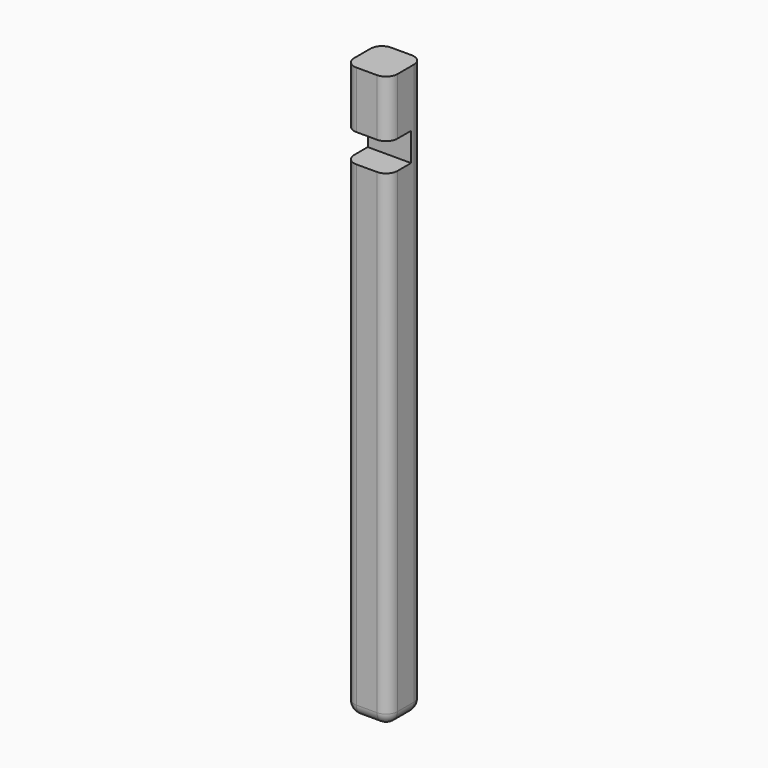
from build123d import *

# Parameters (mm, degrees)
SKETCH020_W          = 7.62
SKETCH020_H          = 7.62
PAD011_DEPTH         = 100.739
SKETCH021_W          = 5
SKETCH021_H          = 5
POCKET009_DEPTH      = 3.811
POCKET009_DEPTH_BACK = 3.811
FILLET005_R          = 2


with BuildPart() as part:
    # Sketch020 → Pad011 (new body)
    with BuildSketch(Plane.XY):
        Rectangle(SKETCH020_W, SKETCH020_H)
    extrude(amount=PAD011_DEPTH)

    # Sketch021 → Pocket009 (cut, two sides)
    with BuildSketch(Plane.YZ) as pocket009_sk:
        with Locations((-1.31, 88.239)):
            Rectangle(SKETCH021_W, SKETCH021_H)
    extrude(amount=-POCKET009_DEPTH, mode=Mode.SUBTRACT)
    extrude(pocket009_sk.sketch, amount=POCKET009_DEPTH_BACK, mode=Mode.SUBTRACT)

    # Fillet005
    fillet005_edges = [part.edges().sort_by_distance(p)[0] for p in [
        (0, 3.81, 0),
        (3.81, 0, 0),
        (0, -3.81, 0),
        (-3.81, 0, 0),
        (3.81, 3.81, 50.3695),
        (3.81, -3.81, 42.8695),
        (-3.81, -3.81, 42.8695),
        (-3.81, 3.81, 50.3695),
        (-3.81, -3.81, 95.739),
        (3.81, -3.81, 95.739),
    ]]
    fillet(fillet005_edges, radius=FILLET005_R)


with BuildPart() as part_1:
    # Body005 placement: moved
    add(part.part.moved(Location((0, 8.84, -5))))


solid = part_1.part
